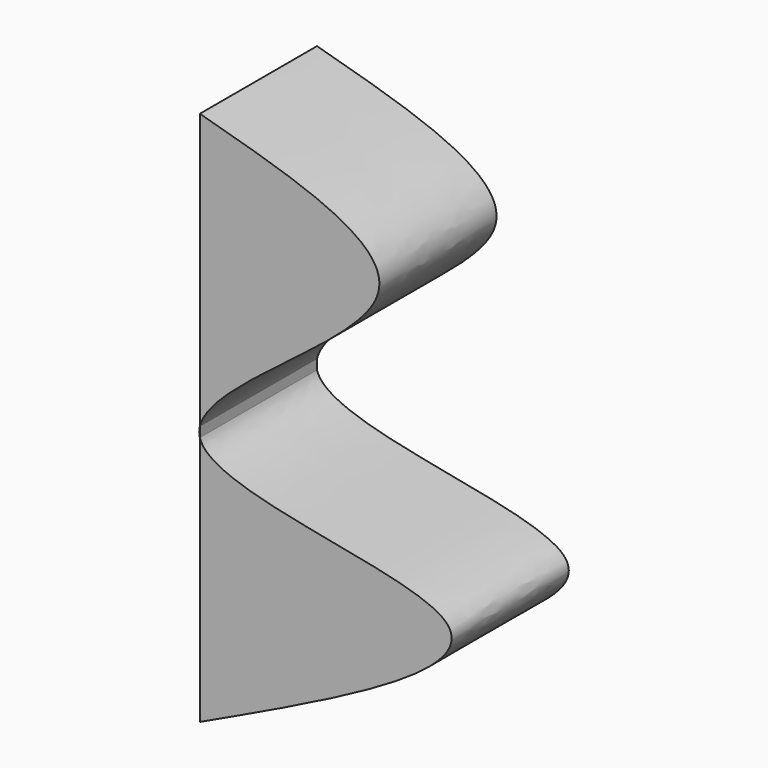
from build123d import *

# Parameters (mm, degrees)
F1_DEPTH = 25.4


with BuildPart() as f1:
    # F0 (on Front) → F1 (new body)
    with BuildSketch(Plane.XZ):
        with BuildLine():
            Line((0, 49.4524389505), (0, 1.7233319871))
            add(Edge.make_bspline(
                [(0, 49.4524389505), (17.0466781491, 44.7516639334), (51.6919861441, 35.197908248), (1.8862090503, 9.6159898871), (0, 1.7233319871)],
                knots=[0, 0, 0, 0, 0.2253430572, 0.4579824617, 0.4579824617, 0.4579824617, 0.4579824617], degree=3))
        make_face()
    extrude(amount=F1_DEPTH)


with BuildPart() as f1b:
    # F0 (on Front) → F1, piece 2 (new body)
    with BuildSketch(Plane.XZ):
        with BuildLine():
            add(Edge.make_bspline(
                [(0, 1.7233319871), (-0.1448009714, 1.1174264375), (-0.1516181257, 0.5415893077), (0, 0)],
                knots=[0.4579824617, 0.4579824617, 0.4579824617, 0.4579824617, 0.4758417821, 0.4758417821, 0.4758417821, 0.4758417821], degree=3))
            Line((0, 0), (0, 1.7233319871))
        make_face()
    extrude(amount=F1_DEPTH)


with BuildPart() as f1c:
    # F0 (on Front) → F1, piece 3 (new body)
    with BuildSketch(Plane.XZ):
        with BuildLine():
            Line((0, 0), (0, -43.4065312147))
            add(Edge.make_bspline(
                [(0, 0), (2.1458317245, -7.6650434303), (72.4060198603, -9.3345570659), (24.7007412353, -31.7831466059), (0, -43.4065312147)],
                knots=[0.4758417821, 0.4758417821, 0.4758417821, 0.4758417821, 0.7286024339, 1, 1, 1, 1], degree=3))
        make_face()
    extrude(amount=F1_DEPTH)


solid = Compound([f1.part, f1b.part, f1c.part])
